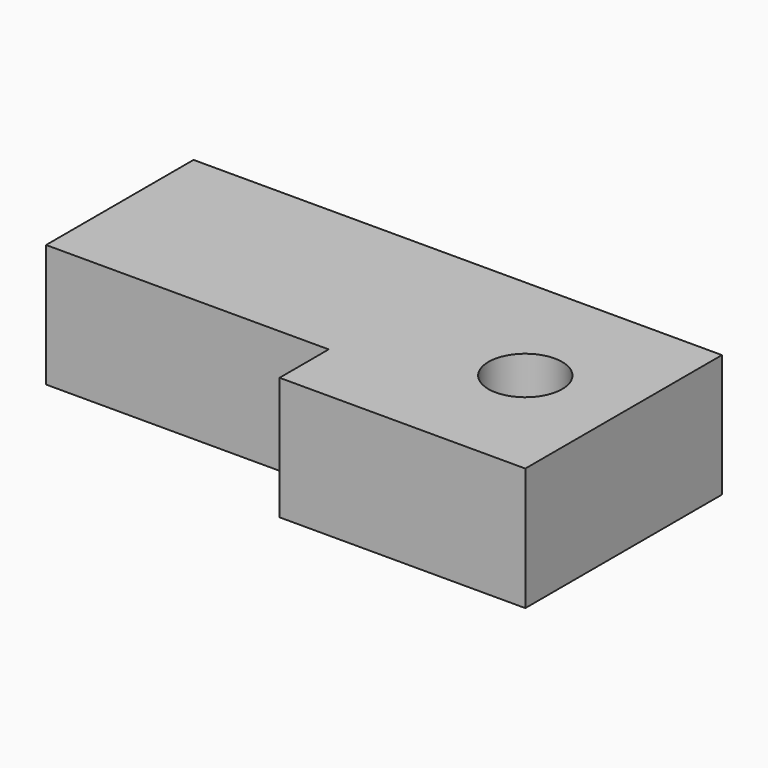
from build123d import *

# Parameters (mm, degrees)
F0_W     = 43
F0_H     = 20
F1_DEPTH = 10
F2_D     = 6
F3_W     = 23
F3_H     = 5
F4_DEPTH = 10


with BuildPart() as f1:
    # F0 (on Top) → F1 (new body)
    with BuildSketch(Plane.XY):
        Rectangle(F0_W, F0_H)
    extrude(amount=F1_DEPTH)

    # F2 (through all)
    with Locations(Plane(origin=(0, 0, 0), x_dir=(1, 0, 0), z_dir=(0, 0, -1))):
        with Locations((13.5, 0)):
            Hole(F2_D / 2)

    # F3 (on face) → F4 (cut)
    with BuildSketch(Plane(origin=(0, 0, 0), x_dir=(1, 0, 0), z_dir=(0, 0, -1))):
        with Locations((-10, 7.5)):
            Rectangle(F3_W, F3_H)
    extrude(amount=-F4_DEPTH, mode=Mode.SUBTRACT)


solid = f1.part
